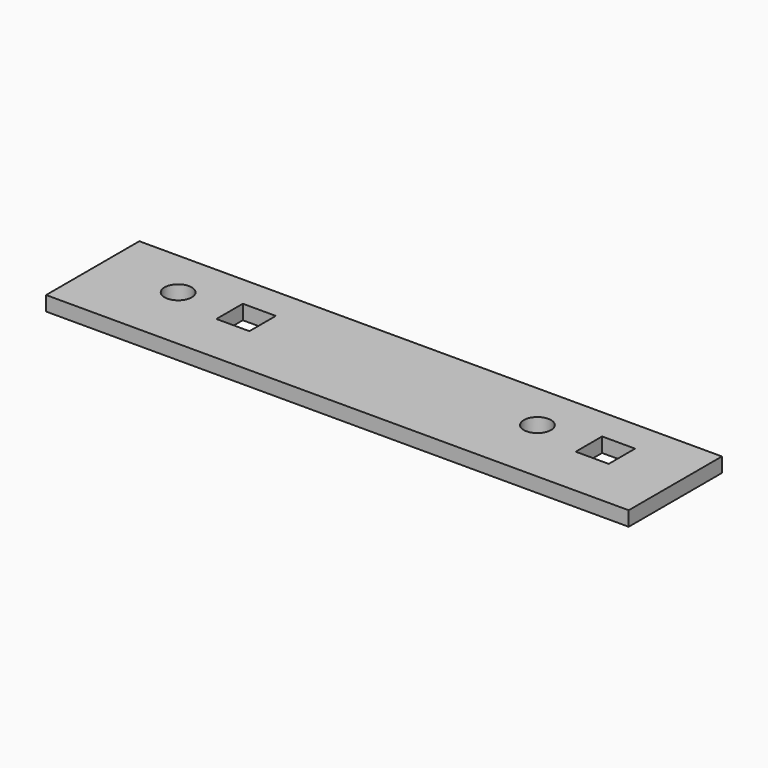
from build123d import *

# Parameters (mm, degrees)
SKETCH_W   = 600
SKETCH_H   = 120
SKETCH_R   = 14
SKETCH_W_2 = 34
SKETCH_H_2 = 34
PAD_DEPTH  = 15


with BuildPart() as part:
    # Sketch → Pad (new body)
    with BuildSketch(Plane.XY):
        with Locations((300, 60)):
            Rectangle(SKETCH_W, SKETCH_H)
        with Locations((80, 70)):
            Circle(SKETCH_R, mode=Mode.SUBTRACT)
        with Locations((450, 70)):
            Circle(SKETCH_R, mode=Mode.SUBTRACT)
        with Locations((150, 70)):
            Rectangle(SKETCH_W_2, SKETCH_H_2, mode=Mode.SUBTRACT)
        with Locations((520, 70)):
            Rectangle(SKETCH_W_2, SKETCH_H_2, mode=Mode.SUBTRACT)
    extrude(amount=PAD_DEPTH)


solid = part.part
